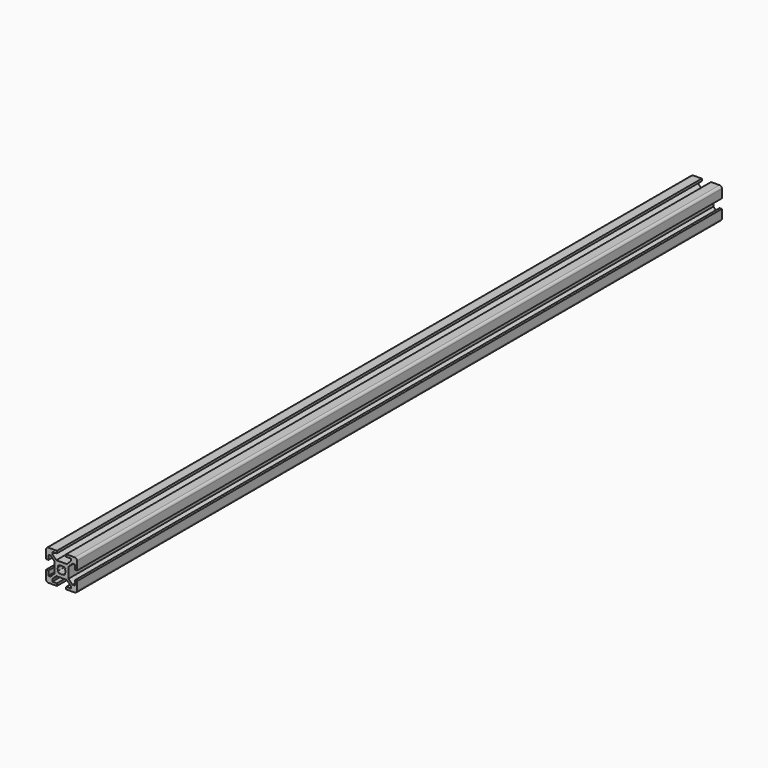
from build123d import *

# Parameters (mm, degrees)
F1_DEPTH = 520


with BuildPart() as f1:
    # F0 (on Front) → F1 (new body)
    with BuildSketch(Plane.XZ):
        with BuildLine():
            Line((3, -10), (8.5, -10))
            ThreePointArc((8.5, -10), (9.5606601718, -9.5606601718), (10, -8.5))
            Line((10, -8.5), (10, -3))
            Line((10, -3), (8.5, -3))
            Line((8.5, -3), (8.5, -6))
            Line((8.5, -6), (7.0606601718, -6))
            Line((7.0606601718, -6), (4.5, -3.4393398282))
            Line((4.5, -3.4393398282), (4.5, 3.4393398282))
            Line((4.5, 3.4393398282), (7.0606601718, 6))
            Line((7.0606601718, 6), (8.5, 6))
            Line((8.5, 6), (8.5, 3))
            Line((8.5, 3), (10, 3))
            Line((10, 3), (10, 8.5))
            ThreePointArc((10, 8.5), (9.5606601718, 9.5606601718), (8.5, 10))
            Line((8.5, 10), (3, 10))
            Line((3, 10), (3, 8.5))
            Line((3, 8.5), (6, 8.5))
            Line((6, 8.5), (6, 7.0606601718))
            Line((6, 7.0606601718), (3.4393398282, 4.5))
            Line((3.4393398282, 4.5), (-3.4393398282, 4.5))
            Line((-3.4393398282, 4.5), (-6, 7.0606601718))
            Line((-6, 7.0606601718), (-6, 8.5))
            Line((-6, 8.5), (-3, 8.5))
            Line((-3, 8.5), (-3, 10))
            Line((-3, 10), (-8.5, 10))
            ThreePointArc((-8.5, 10), (-9.5606601718, 9.5606601718), (-10, 8.5))
            Line((-10, 8.5), (-10, 3))
            Line((-10, 3), (-8.5, 3))
            Line((-8.5, 3), (-8.5, 6))
            Line((-8.5, 6), (-7.0606601718, 6))
            Line((-7.0606601718, 6), (-4.5, 3.4393398282))
            Line((-4.5, 3.4393398282), (-4.5, -3.4393398282))
            Line((-4.5, -3.4393398282), (-7.0606601718, -6))
            Line((-7.0606601718, -6), (-8.5, -6))
            Line((-8.5, -6), (-8.5, -3))
            Line((-8.5, -3), (-10, -3))
            Line((-10, -3), (-10, -8.5))
            ThreePointArc((-10, -8.5), (-9.5606601718, -9.5606601718), (-8.5, -10))
            Line((-8.5, -10), (-3, -10))
            Line((-3, -10), (-3, -8.5))
            Line((-3, -8.5), (-6, -8.5))
            Line((-6, -8.5), (-6, -7.0606601718))
            Line((-6, -7.0606601718), (-3.4393398282, -4.5))
            Line((-3.4393398282, -4.5), (3.4393398282, -4.5))
            Line((3.4393398282, -4.5), (6, -7.0606601718))
            Line((6, -7.0606601718), (6, -8.5))
            Line((6, -8.5), (3, -8.5))
            Line((3, -8.5), (3, -10))
        make_face()
        with BuildLine():
            ThreePointArc((-1.1560121095, 2.2166722813), (0, 2.5), (1.1560121095, 2.2166722813))
            Line((1.1560121095, 2.2166722813), (1.4393398282, 2.5))
            Line((1.4393398282, 2.5), (2.5, 1.4393398282))
            Line((2.5, 1.4393398282), (2.2166722813, 1.1560121095))
            ThreePointArc((2.2166722813, 1.1560121095), (2.5, 0), (2.2166722813, -1.1560121095))
            Line((2.2166722813, -1.1560121095), (2.5, -1.4393398282))
            Line((2.5, -1.4393398282), (1.4393398282, -2.5))
            Line((1.4393398282, -2.5), (1.1560121095, -2.2166722813))
            ThreePointArc((1.1560121095, -2.2166722813), (0, -2.5), (-1.1560121095, -2.2166722813))
            Line((-1.1560121095, -2.2166722813), (-1.4393398282, -2.5))
            Line((-1.4393398282, -2.5), (-2.5, -1.4393398282))
            Line((-2.5, -1.4393398282), (-2.2166722813, -1.1560121095))
            ThreePointArc((-2.2166722813, -1.1560121095), (-2.5, 0), (-2.2166722813, 1.1560121095))
            Line((-2.2166722813, 1.1560121095), (-2.5, 1.4393398282))
            Line((-2.5, 1.4393398282), (-1.4393398282, 2.5))
            Line((-1.4393398282, 2.5), (-1.1560121095, 2.2166722813))
        make_face(mode=Mode.SUBTRACT)
    extrude(amount=F1_DEPTH)


solid = f1.part
